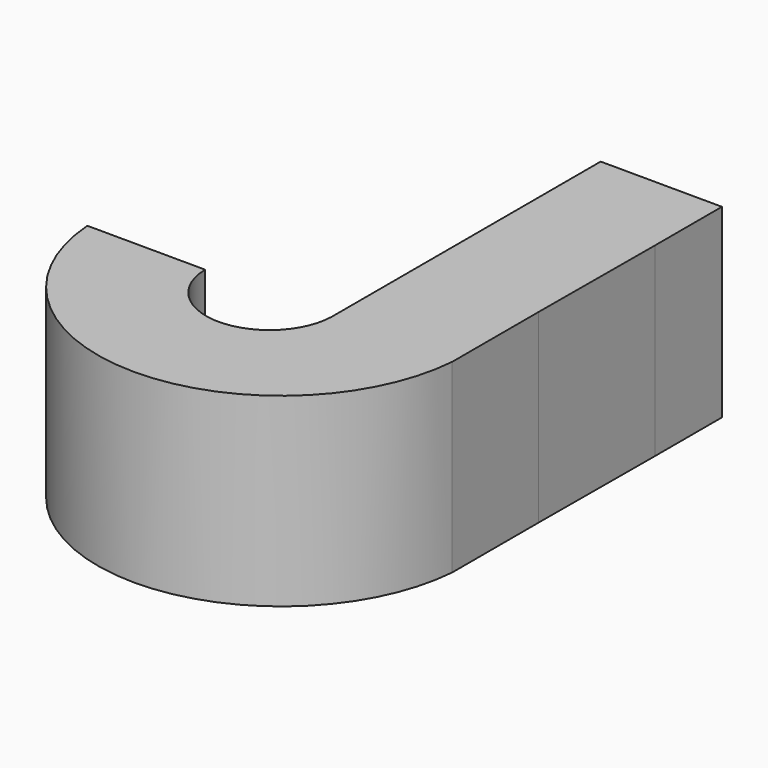
from build123d import *

# Parameters (mm, degrees)
F1_DEPTH = 5


with BuildPart() as f1:
    # F0 (on Top) → F1 (new body)
    with BuildSketch(Plane.XY):
        with BuildLine():
            Line((-65.410274, 44.314684), (-68.597218, 44.329395))
            ThreePointArc((-68.597218, 44.329395), (-63.681228, 39.740166), (-58.723081, 44.283817))
            Line((-58.723081, 44.283817), (-58.723081, 47.183014))
            Line((-58.723081, 47.183014), (-58.70503, 51.093523))
            Line((-58.70503, 51.093523), (-58.70503, 53.350328))
            Line((-58.70503, 53.350328), (-61.986422, 53.365474))
            Line((-61.986422, 53.365474), (-61.986422, 51.093523))
            Line((-61.986422, 51.093523), (-61.986422, 44.29888))
            ThreePointArc((-61.986422, 44.29888), (-63.70606, 42.635903), (-65.410274, 44.314684))
        make_face()
    extrude(amount=F1_DEPTH)


solid = f1.part
